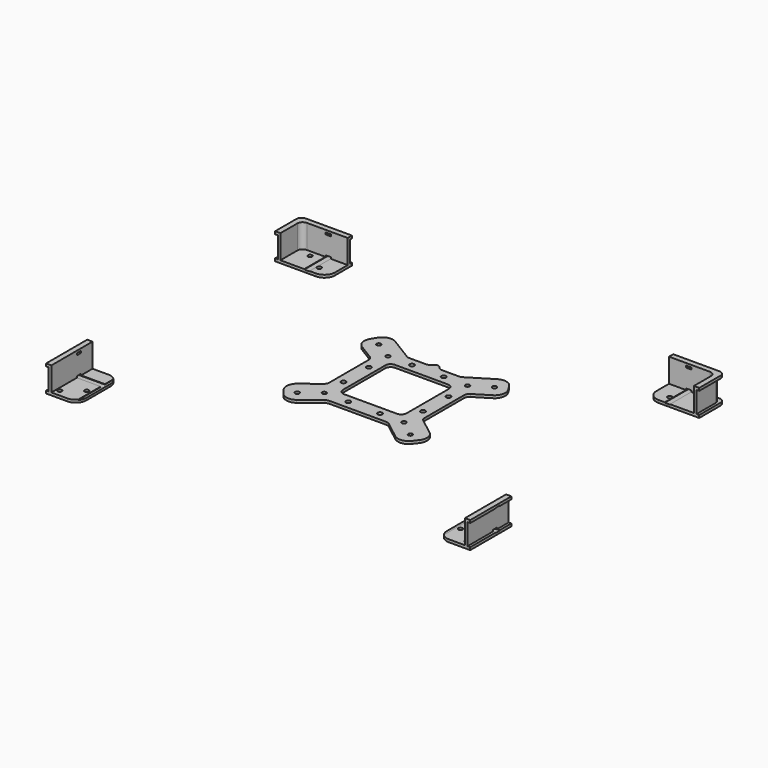
from build123d import *

# Parameters (mm, degrees)
F1_R          = 2
F1_R_2        = 2.1915024606
F2_DEPTH      = 2.5
F1_W          = 25
F1_H          = 48.5
F1_W_2        = 5
F1_W_3        = 43.5
F1_H_2        = 25
F3_DEPTH      = 25
F4_W          = 2.5
F4_H          = 20
F4_W_2        = 5
F4_H_2        = 1.8
F5_DEPTH      = 200.001
F5_DEPTH_BACK = 200.001
F6_W          = 2.5
F6_H          = 20
F6_W_2        = 5
F6_H_2        = 1.8
F7_DEPTH      = 162.501
F7_DEPTH_BACK = 137.501
F8_R          = 10
F8_2_R        = 10
F8_3_R        = 10
F8_4_R        = 10
F8_5_R        = 10
F9_R          = 5
F9_2_R        = 5


with BuildPart() as f2:
    # F1 (on Top) → F2 (new body)
    with BuildSketch(Plane.XY):
        with BuildLine():
            Line((-7.4833147735, 45), (-23.5847890485, 45))
            ThreePointArc((-23.5847890485, 45), (-24.9465052601, 45.1889991729), (-26.2052761768, 45.7417084165))
            Line((-26.2052761768, 45.7417084165), (-56.6770609695, 64.4935759812))
            Line((-56.6770609695, 64.4935759812), (-63.4581768494, 53.4742626765))
            Line((-63.4581768494, 53.4742626765), (-70.2392927292, 42.4549493718))
            Line((-70.2392927292, 42.4549493718), (-47.3795128717, 28.3873925364))
            ThreePointArc((-47.3795128717, 28.3873925364), (-45.6352299235, 26.5681134947), (-45, 24.1291009529))
            Line((-45, 24.1291009529), (-45, -22.5379925127))
            ThreePointArc((-45, -22.5379925127), (-45.5143133736, -24.7467513247), (-46.9514461958, -26.5011124583))
            Line((-46.9514461958, -26.5011124583), (-70.2395256851, -44.4150197577))
            Line((-70.2395256851, -44.4150197577), (-54.4663083019, -64.9202023559))
            Line((-54.4663083019, -64.9202023559), (-29.9179893101, -46.0368800545))
            ThreePointArc((-29.9179893101, -46.0368800545), (-28.4794666037, -45.2663122342), (-26.8694355058, -45))
            Line((-26.8694355058, -45), (26.8694355058, -45))
            Line((26.8694355058, -45), (40, -45))
            ThreePointArc((40, -45), (43.5355339059, -43.5355339059), (45, -40))
            Line((45, -40), (45, -22.5379925127))
            Line((45, -22.5379925127), (45, 24.1291009529))
            Line((45, 24.1291009529), (45, 40))
            ThreePointArc((45, 40), (43.5355339059, 43.5355339059), (40, 45))
            Line((40, 45), (23.5847890485, 45))
            Line((23.5847890485, 45), (7.4833147735, 45))
            ThreePointArc((7.4833147735, 45), (5.1262921696, 45.5904144816), (3.3259176771, 47.2222222222))
            ThreePointArc((3.3259176771, 47.2222222222), (0, 49), (-3.3259176771, 47.2222222222))
            ThreePointArc((-3.3259176771, 47.2222222222), (-5.1262921696, 45.5904144816), (-7.4833147735, 45))
        make_face()
        with Locations((-53.3524797821, -49.694215217)):
            Circle(F1_R, mode=Mode.SUBTRACT)
        with Locations((-37.5, -37.5)):
            Circle(F1_R, mode=Mode.SUBTRACT)
        with Locations((-15, -37.5)):
            Circle(F1_R_2, mode=Mode.SUBTRACT)
        with Locations((-37.5, -15)):
            Circle(F1_R_2, mode=Mode.SUBTRACT)
        with Locations((15, -37.5)):
            Circle(F1_R_2, mode=Mode.SUBTRACT)
        with Locations((37.5, -37.5)):
            Circle(F1_R, mode=Mode.SUBTRACT)
        with Locations((37.5, -15)):
            Circle(F1_R_2, mode=Mode.SUBTRACT)
        with Locations((-37.5, 15)):
            Circle(F1_R_2, mode=Mode.SUBTRACT)
        with Locations((-54.5331663341, 47.9819485133)):
            Circle(F1_R, mode=Mode.SUBTRACT)
        with Locations((-37.5, 37.5)):
            Circle(F1_R, mode=Mode.SUBTRACT)
        with Locations((-15, 37.5)):
            Circle(F1_R_2, mode=Mode.SUBTRACT)
        with BuildLine():
            ThreePointArc((30, -25), (28.5355339059, -28.5355339059), (25, -30))
            Line((25, -30), (-25, -30))
            ThreePointArc((-25, -30), (-28.5355339059, -28.5355339059), (-30, -25))
            Line((-30, -25), (-30, 25))
            ThreePointArc((-30, 25), (-28.5355339059, 28.5355339059), (-25, 30))
            Line((-25, 30), (25, 30))
            ThreePointArc((25, 30), (28.5355339059, 28.5355339059), (30, 25))
            Line((30, 25), (30, -25))
        make_face(mode=Mode.SUBTRACT)
        with Locations((37.5, 15)):
            Circle(F1_R_2, mode=Mode.SUBTRACT)
        with Locations((15, 37.5)):
            Circle(F1_R_2, mode=Mode.SUBTRACT)
        with Locations((37.5, 37.5)):
            Circle(F1_R, mode=Mode.SUBTRACT)
        with BuildLine():
            ThreePointArc((26.2052761768, 45.7417084165), (24.9465052601, 45.1889991729), (23.5847890485, 45))
            Line((23.5847890485, 45), (40, 45))
            ThreePointArc((40, 45), (43.5355339059, 43.5355339059), (45, 40))
            Line((45, 40), (45, 24.1291009529))
            ThreePointArc((45, 24.1291009529), (45.6352299235, 26.5681134947), (47.3795128717, 28.3873925364))
            Line((47.3795128717, 28.3873925364), (70.2392927292, 42.4549493718))
            Line((70.2392927292, 42.4549493718), (63.4581768494, 53.4742626765))
            Line((63.4581768494, 53.4742626765), (56.6770609695, 64.4935759812))
            Line((56.6770609695, 64.4935759812), (26.2052761768, 45.7417084165))
        make_face()
        with Locations((54.5331663341, 47.9819485133)):
            Circle(F1_R, mode=Mode.SUBTRACT)
        with BuildLine():
            ThreePointArc((46.9514461958, -26.5011124583), (45.5143133736, -24.7467513247), (45, -22.5379925127))
            Line((45, -22.5379925127), (45, -40))
            ThreePointArc((45, -40), (43.5355339059, -43.5355339059), (40, -45))
            Line((40, -45), (26.8694355058, -45))
            ThreePointArc((26.8694355058, -45), (28.4794666037, -45.2663122342), (29.9179893101, -46.0368800545))
            Line((29.9179893101, -46.0368800545), (54.4663083019, -64.9202023559))
            Line((54.4663083019, -64.9202023559), (70.2395256851, -44.4150197577))
            Line((70.2395256851, -44.4150197577), (46.9514461958, -26.5011124583))
        make_face()
        with Locations((53.3524797821, -49.694215217)):
            Circle(F1_R, mode=Mode.SUBTRACT)
    extrude(amount=F2_DEPTH)

    # F8#2
    f8_2_edges = [f2.edges().sort_by_distance(p)[0] for p in [
        (-70.239293, 42.454949, 1.25),
        (-56.677061, 64.493576, 1.25),
        (56.677061, 64.493576, 1.25),
        (70.239293, 42.454949, 1.25),
        (70.239526, -44.41502, 1.25),
        (54.466308, -64.920202, 1.25),
        (-54.466308, -64.920202, 1.25),
        (-70.239526, -44.41502, 1.25),
    ]]
    fillet(f8_2_edges, radius=F8_2_R)


with BuildPart() as f2b:
    # F1 (on Top) → F2, piece 2 (new body)
    with BuildSketch(Plane.XY):
        with Locations((182.5, -138.25)):
            Rectangle(F1_W, F1_H)
        with Locations((192.0616778754, -156.3935983657)):
            Circle(F1_R, mode=Mode.SUBTRACT)
        with Locations((176.2091980933, -144.1993831487)):
            Circle(F1_R, mode=Mode.SUBTRACT)
        with Locations((197.5, -138.25)):
            Rectangle(F1_W_2, F1_H)
    extrude(amount=F2_DEPTH)

    # F1 (on Top) → F3, piece 3 (join)
    with BuildSketch(Plane.XY):
        with Locations((197.5, -138.25)):
            Rectangle(F1_W_2, F1_H)
    extrude(amount=F3_DEPTH)


with BuildPart() as f2c:
    # F1 (on Top) → F2, piece 3 (new body)
    with BuildSketch(Plane.XY):
        Polygon((-151.5, 137.5), (-200, 137.5), (-200, 107.5), (-195, 107.5), (-195, 126.2038182571), (-195, 132.5), (-178.5187046678, 132.5), (-151.5, 132.5), align=None)
        Polygon((-151.5, 115.8731048198), (-151.5, 132.5), (-178.5187046678, 132.5), (-161.580065526, 122.0762220666), (-157.2689313729, 119.4232164339), align=None)
        Polygon((-195, 126.2038182571), (-195, 107.5), (-164.6062953322, 107.5), (-168.9174294853, 110.1530056327), (-185.8560686271, 120.5767835661), align=None)
        Polygon((-151.5, 107.5), (-151.5, 115.8731048198), (-157.2689313729, 119.4232164339), (-164.6062953322, 107.5), align=None)
        Polygon((-161.580065526, 122.0762220666), (-178.5187046678, 132.5), (-195, 132.5), (-195, 126.2038182571), (-185.8560686271, 120.5767835661), (-168.9174294853, 110.1530056327), (-164.6062953322, 107.5), (-157.2689313729, 119.4232164339), align=None)
        with Locations((-165.2487475057, 116.1146138497)):
            Circle(F1_R, mode=Mode.SUBTRACT)
        with Locations((-182.2819138398, 126.5965623629)):
            Circle(F1_R, mode=Mode.SUBTRACT)
    extrude(amount=F2_DEPTH)

    # F1 (on Top) → F3 (join)
    with BuildSketch(Plane.XY):
        Polygon((-151.5, 137.5), (-200, 137.5), (-200, 107.5), (-195, 107.5), (-195, 126.2038182571), (-195, 132.5), (-178.5187046678, 132.5), (-151.5, 132.5), align=None)
    extrude(amount=F3_DEPTH)


with BuildPart() as f2d:
    # F1 (on Top) → F2, piece 4 (new body)
    with BuildSketch(Plane.XY):
        with Locations((173.25, 120)):
            Rectangle(F1_W_3, F1_H_2)
        with Locations((165.2487475057, 116.1146138497)):
            Circle(F1_R, mode=Mode.SUBTRACT)
        with Locations((182.2819138398, 126.5965623629)):
            Circle(F1_R, mode=Mode.SUBTRACT)
        Polygon((151.5, 137.5), (151.5, 132.5), (195, 132.5), (195, 107.5), (200, 107.5), (200, 137.5), align=None)
    extrude(amount=F2_DEPTH)

    # F1 (on Top) → F3, piece 4 (join)
    with BuildSketch(Plane.XY):
        Polygon((151.5, 137.5), (151.5, 132.5), (195, 132.5), (195, 107.5), (200, 107.5), (200, 137.5), align=None)
    extrude(amount=F3_DEPTH)


with BuildPart() as f2e:
    # F1 (on Top) → F2, piece 5 (new body)
    with BuildSketch(Plane.XY):
        with Locations((-197.5, -138.25)):
            Rectangle(F1_W_2, F1_H)
        with Locations((-182.5, -138.25)):
            Rectangle(F1_W, F1_H)
        with Locations((-192.0616778754, -156.3935983657)):
            Circle(F1_R, mode=Mode.SUBTRACT)
        with Locations((-176.2091980933, -144.1993831487)):
            Circle(F1_R, mode=Mode.SUBTRACT)
    extrude(amount=F2_DEPTH)

    # F1 (on Top) → F3, piece 2 (join)
    with BuildSketch(Plane.XY):
        with Locations((-197.5, -138.25)):
            Rectangle(F1_W_2, F1_H)
    extrude(amount=F3_DEPTH)


with BuildPart() as f5_tool:
    # F4 (on Right) → F5 (new body, two sides)
    with BuildSketch(Plane.YZ) as f5_sk:
        with Locations((136.25, 12.5)):
            Rectangle(F4_W, F4_H)
        with Locations((-130, 3)):
            Rectangle(F4_W_2, F4_H_2)
        with Locations((-130, 22)):
            Rectangle(F4_W_2, F4_H_2)
    extrude(amount=-F5_DEPTH)
    extrude(f5_sk.sketch, amount=F5_DEPTH_BACK)


with BuildPart() as f2b_1:
    add(f2b.part)

    # F5: cut by f5_tool
    add(f5_tool.part, mode=Mode.SUBTRACT)


with BuildPart() as f2c_1:
    add(f2c.part)

    # F5: cut by f5_tool
    add(f5_tool.part, mode=Mode.SUBTRACT)


with BuildPart() as f2d_1:
    add(f2d.part)

    # F5: cut by f5_tool
    add(f5_tool.part, mode=Mode.SUBTRACT)


with BuildPart() as f2e_1:
    add(f2e.part)

    # F5: cut by f5_tool
    add(f5_tool.part, mode=Mode.SUBTRACT)


with BuildPart() as f7_tool:
    # F6 (on Front) → F7 (new body, two sides)
    with BuildSketch(Plane.XZ) as f7_sk:
        with Locations((198.75, 12.5)):
            Rectangle(F6_W, F6_H)
        with Locations((-198.75, 12.5)):
            Rectangle(F6_W, F6_H)
        with Locations((-170, 3)):
            Rectangle(F6_W_2, F6_H_2)
        with Locations((-170, 22)):
            Rectangle(F6_W_2, F6_H_2)
        with Locations((170, 3)):
            Rectangle(F6_W_2, F6_H_2)
        with Locations((170, 22)):
            Rectangle(F6_W_2, F6_H_2)
    extrude(amount=F7_DEPTH)
    extrude(f7_sk.sketch, amount=-F7_DEPTH_BACK)


with BuildPart() as f2b_2:
    add(f2b_1.part)

    # F7: cut by f7_tool
    add(f7_tool.part, mode=Mode.SUBTRACT)

    # F8#4
    f8_4_edges = [f2b_2.edges().sort_by_distance(p)[0] for p in [
        (170, -162.5, 1.05),
        (170, -114, 1.05),
    ]]
    fillet(f8_4_edges, radius=F8_4_R)


with BuildPart() as f2c_2:
    add(f2c_1.part)

    # F7: cut by f7_tool
    add(f7_tool.part, mode=Mode.SUBTRACT)

    # F8
    f8_edges = [f2c_2.edges().sort_by_distance(p)[0] for p in [
        (-151.5, 107.5, 1.25),
    ]]
    fillet(f8_edges, radius=F8_R)

    # F9
    f9_edges = [f2c_2.edges().sort_by_distance(p)[0] for p in [
        (-197.5, 135, 12.5),
        (-195, 132.5, 13.75),
        (-200, 137.5, 23.75),
        (-200, 137.5, 1.25),
    ]]
    fillet(f9_edges, radius=F9_R)


with BuildPart() as f2d_2:
    add(f2d_1.part)

    # F7: cut by f7_tool
    add(f7_tool.part, mode=Mode.SUBTRACT)

    # F8#3
    f8_3_edges = [f2d_2.edges().sort_by_distance(p)[0] for p in [
        (151.5, 107.5, 1.25),
    ]]
    fillet(f8_3_edges, radius=F8_3_R)

    # F9#2
    f9_2_edges = [f2d_2.edges().sort_by_distance(p)[0] for p in [
        (200, 137.5, 23.75),
        (197.5, 135, 12.5),
        (200, 137.5, 1.25),
        (195, 132.5, 13.75),
    ]]
    fillet(f9_2_edges, radius=F9_2_R)


with BuildPart() as f2e_2:
    add(f2e_1.part)

    # F7: cut by f7_tool
    add(f7_tool.part, mode=Mode.SUBTRACT)

    # F8#5
    f8_5_edges = [f2e_2.edges().sort_by_distance(p)[0] for p in [
        (-170, -162.5, 1.05),
        (-170, -114, 1.05),
    ]]
    fillet(f8_5_edges, radius=F8_5_R)


solid = Compound([f2.part, f2b_2.part, f2c_2.part, f2d_2.part, f2e_2.part])
